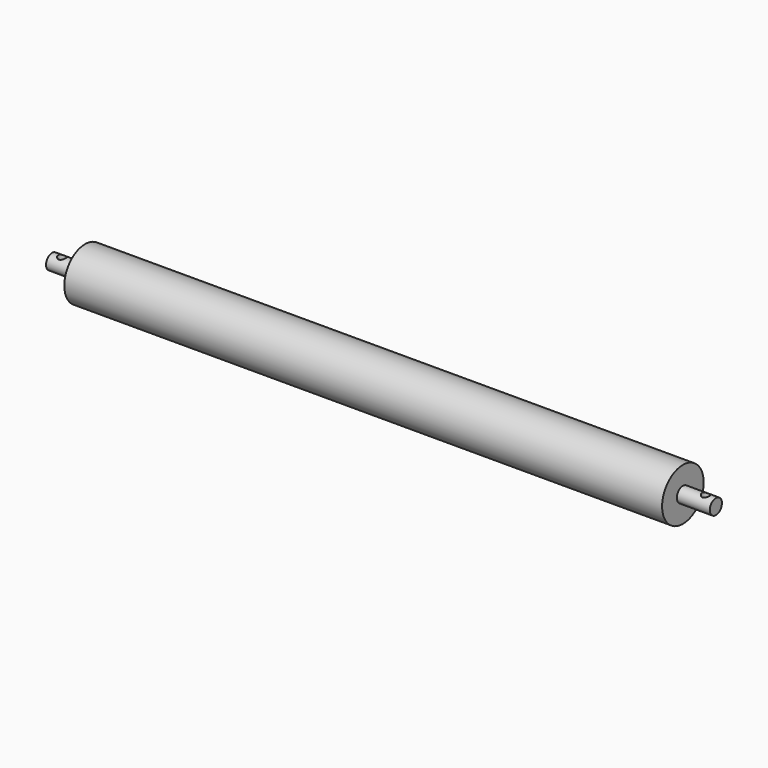
from build123d import *

# Parameters (mm, degrees)
F0_R     = 20.6375
F0_R_2   = 6
F1_DEPTH = 237.33125
F2_DEPTH = 263.525
F3_R     = 3.175
F4_DEPTH = 6.35


with BuildPart() as f1:
    # F0 (on Right) → F1 (new body, symmetric)
    with BuildSketch(Plane.YZ):
        Circle(F0_R)
        Circle(F0_R_2, mode=Mode.SUBTRACT)
    extrude(amount=F1_DEPTH, both=True)

    # F0 (on Right) → F2 (join, symmetric)
    with BuildSketch(Plane.YZ):
        Circle(F0_R_2)
    extrude(amount=F2_DEPTH, both=True)

    # F3 (on Top) → F4 (cut, symmetric)
    with BuildSketch(Plane.XY):
        with Locations((255.5875, 0)):
            Circle(F3_R)
        with Locations((-255.5875, 0)):
            Circle(F3_R)
    extrude(amount=F4_DEPTH, both=True, mode=Mode.SUBTRACT)


solid = f1.part
